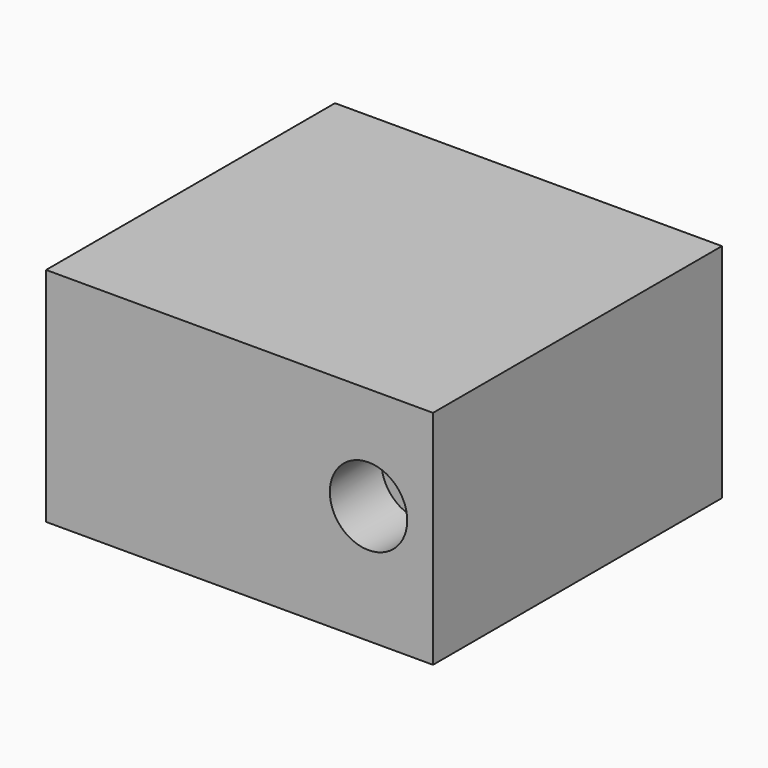
from build123d import *

# Parameters (mm, degrees)
F0_W     = 150
F0_H     = 140
F1_DEPTH = 86
F3_DEPTH = 25


with BuildPart() as f1:
    # F0 (on Top) → F1 (new body)
    with BuildSketch(Plane.XY):
        Rectangle(F0_W, F0_H)
    extrude(amount=F1_DEPTH)

    # F2 (on face) → F3 (cut)
    with BuildSketch(Plane.XZ.offset(70)):
        with BuildLine():
            ThreePointArc((50, 61), (39.393398, 35.393398), (65, 46))
            Line((65, 46), (50, 46))
            Line((50, 46), (50, 61))
        make_face()
        with BuildLine():
            Line((50, 46), (65, 46))
            ThreePointArc((65, 46), (60.606602, 56.606602), (50, 61))
            Line((50, 61), (50, 46))
        make_face()
    extrude(amount=-F3_DEPTH, mode=Mode.SUBTRACT)


solid = f1.part
